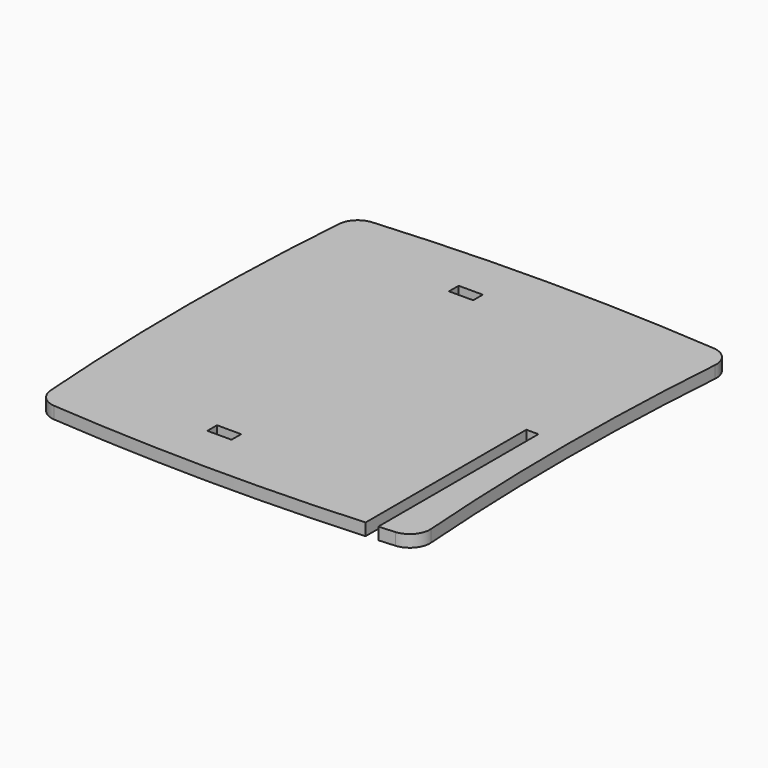
from build123d import *

# Parameters (mm, degrees)
F1_W     = 6
F1_H     = 3
F2_DEPTH = 3
F3_R     = 5


with BuildPart() as f2:
    # F1 (on Top) → F2 (new body)
    with BuildSketch(Plane.XY):
        Polygon((39.5, -49), (45.5, -49), (45.5, 49), (-45.5, 49), (-45.5, -49), (36.5, -49), (36.5, 0), (39.5, 0), align=None)
        with Locations((-8.5, -37.5)):
            Rectangle(F1_W, F1_H, mode=Mode.SUBTRACT)
        with Locations((-8.5, 37.5)):
            Rectangle(F1_W, F1_H, mode=Mode.SUBTRACT)
        with BuildLine():
            Line((45.5, 49), (45.5, -49))
            Line((45.5, -49), (48.5, -49))
            ThreePointArc((48.5, -49), (46.5, 0), (48.5, 49))
            Line((48.5, 49), (45.5, 49))
        make_face()
        with BuildLine():
            Line((36.5, -49.8917956467), (36.5, -49))
            Line((36.5, -49), (-45.5, -49))
            ThreePointArc((-45.5, -49), (-4.5165459251, -50.9672843243), (36.5, -49.8917956467))
        make_face()
        with BuildLine():
            Line((48.5, -49), (45.5, -49))
            Line((45.5, -49), (39.5, -49))
            Line((39.5, -49), (39.5, -49.6934413959))
            ThreePointArc((39.5, -49.6934413959), (44.0014142734, -49.3650761942), (48.5, -49))
        make_face()
        with BuildLine():
            Line((-45.5, 49), (45.5, 49))
            Line((45.5, 49), (48.5, 49))
            ThreePointArc((48.5, 49), (1.5, 51), (-45.5, 49))
        make_face()
        with BuildLine():
            Line((-45.5, -49), (-45.5, 49))
            ThreePointArc((-45.5, 49), (-47.5, 0), (-45.5, -49))
        make_face()
    extrude(amount=F2_DEPTH)

    # F3
    f3_edges = [f2.edges().sort_by_distance(p)[0] for p in [
        (-45.5, -49, 1.5),
        (-45.5, 49, 1.5),
        (48.5, -49, 1.5),
        (48.5, 49, 1.5),
    ]]
    fillet(f3_edges, radius=F3_R)


solid = f2.part
